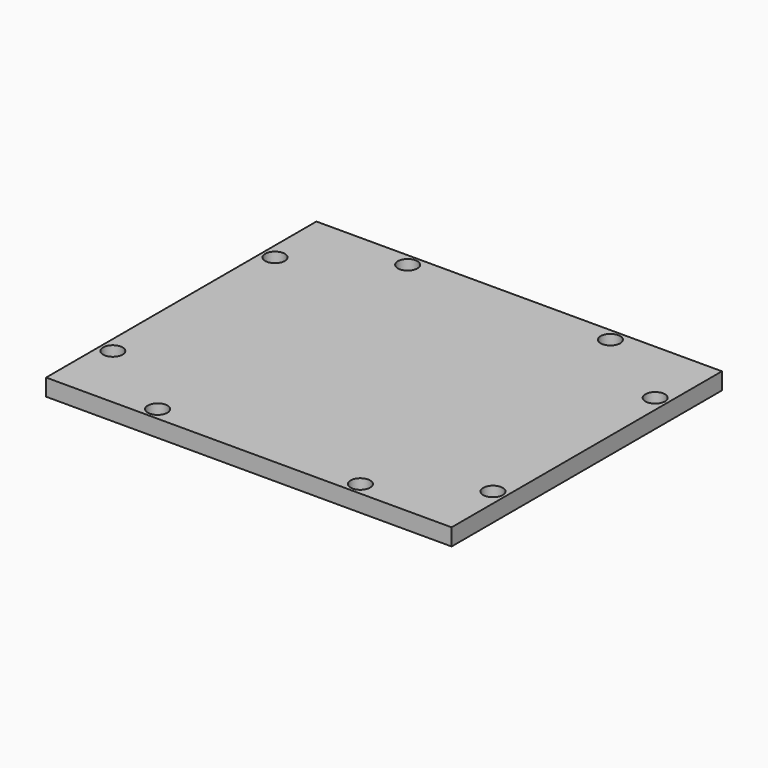
from build123d import *

# Parameters (mm, degrees)
SKETCH007_W     = 152.4
SKETCH007_H     = 127
PAD005_DEPTH    = 6.35
SKETCH085_R     = 2.2606
POCKET013_DEPTH = 6.351
SKETCH095_R     = 3.683
POCKET023_DEPTH = 4.318


with BuildPart() as part:
    # Sketch007 → Pad005 (new body)
    with BuildSketch(Plane.XY):
        Rectangle(SKETCH007_W, SKETCH007_H)
    extrude(amount=PAD005_DEPTH)

    # Sketch085 (on Face6 of Pad005) → Pocket013 (cut, through all)
    with BuildSketch(Plane.XY.offset(6.35)):
        with Locations((-38.1, 58.7375)):
            Circle(SKETCH085_R)
        with Locations((38.1, 58.7375)):
            Circle(SKETCH085_R)
        with Locations((71.4375, 38.1)):
            Circle(SKETCH085_R)
        with Locations((71.4375, -38.1)):
            Circle(SKETCH085_R)
        with Locations((38.1, -58.7375)):
            Circle(SKETCH085_R)
        with Locations((-38.1, -58.7375)):
            Circle(SKETCH085_R)
        with Locations((-71.4375, -38.1)):
            Circle(SKETCH085_R)
        with Locations((-71.4375, 38.1)):
            Circle(SKETCH085_R)
    extrude(amount=-POCKET013_DEPTH, mode=Mode.SUBTRACT)

    # Sketch095 (on Face6 of Pad005) → Pocket023 (cut)
    with BuildSketch(Plane.XY.offset(6.35)):
        with Locations((-38.1, 58.7375)):
            Circle(SKETCH095_R)
        with Locations((38.1, 58.7375)):
            Circle(SKETCH095_R)
        with Locations((71.4375, 38.1)):
            Circle(SKETCH095_R)
        with Locations((71.4375, -38.1)):
            Circle(SKETCH095_R)
        with Locations((38.1, -58.7375)):
            Circle(SKETCH095_R)
        with Locations((-38.1, -58.7375)):
            Circle(SKETCH095_R)
        with Locations((-71.4375, -38.1)):
            Circle(SKETCH095_R)
        with Locations((-71.4375, 38.1)):
            Circle(SKETCH095_R)
    extrude(amount=-POCKET023_DEPTH, mode=Mode.SUBTRACT)


with BuildPart() as part_1:
    # Body007 placement: moved
    add(part.part.moved(Location((-67.5132, 35.1028, 34.671))))


solid = part_1.part
